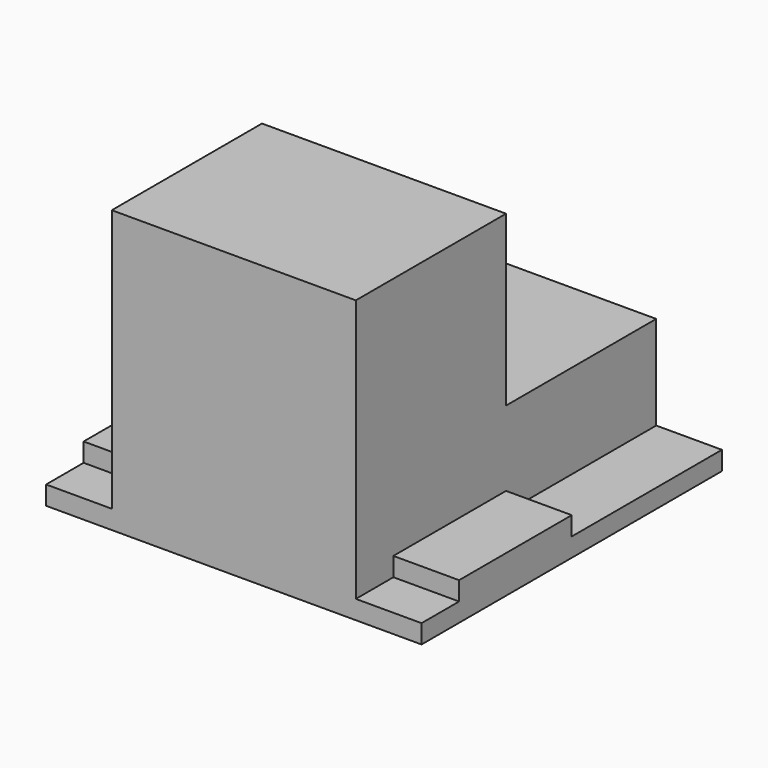
from build123d import *

# Parameters (mm, degrees)
F1_DEPTH = 2
F0_W     = 26
F0_H     = 20
F2_DEPTH = 30
F3_W     = 26
F3_H     = 20
F4_DEPTH = 10
F5_W     = 7
F5_H     = 15
F6_DEPTH = 2


with BuildPart() as f1:
    # F0 (on Top) → F1 (new body)
    with BuildSketch(Plane.XY):
        Polygon((20, -20), (20, 20), (-20, 20), (-20, -20), (-13, -20), (-13, 0), (13, 0), (13, -20), align=None)
    extrude(amount=F1_DEPTH)



with BuildPart() as f2:
    # F0 (on Top) → F2 (new body)
    with BuildSketch(Plane.XY):
        with Locations((0, -10)):
            Rectangle(F0_W, F0_H)
    extrude(amount=F2_DEPTH)


with BuildPart() as f1_1:
    add(f1.part)

    add(f2.part)  # F4 merges F2
    # F3 (on face) → F4 (join)
    with BuildSketch(Plane.XY.offset(2)):
        with Locations((0, 10)):
            Rectangle(F3_W, F3_H)
    extrude(amount=F4_DEPTH)

    # F5 (on face) → F6 (join)
    with BuildSketch(Plane.XY.offset(2)):
        with Locations((16.5, -7.5)):
            Rectangle(F5_W, F5_H)
        with Locations((-16.5, -7.5)):
            Rectangle(F5_W, F5_H)
    extrude(amount=F6_DEPTH)


solid = f1_1.part
